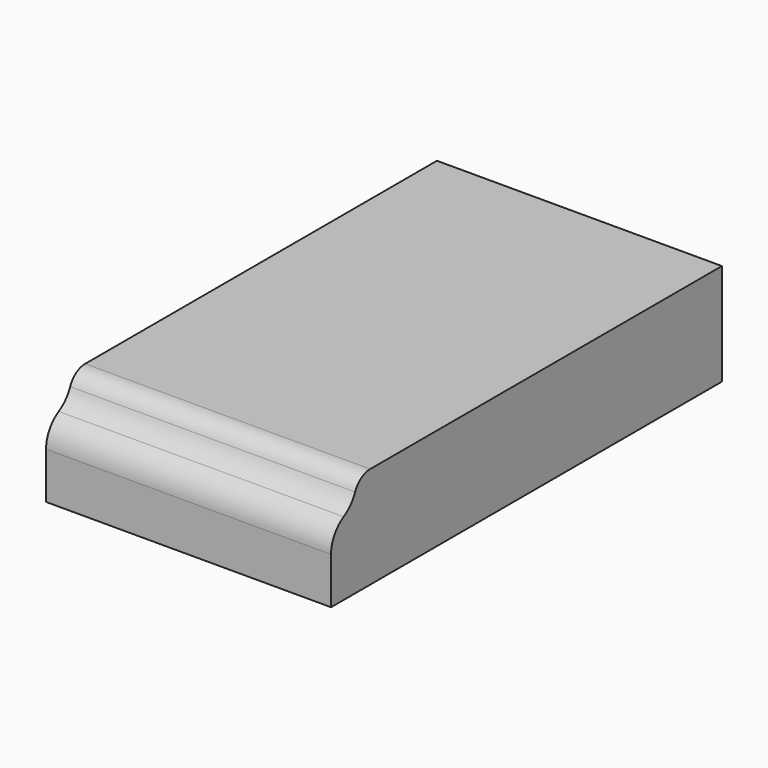
from build123d import *

# Parameters (mm, degrees)
F0_W     = 70
F0_H     = 120
F1_DEPTH = 25
F2_R     = 8
F3_DEPTH = 70
F4_R     = 5
F5_R     = 7.5


with BuildPart() as f1:
    # F0 (on Top) → F1 (new body)
    with BuildSketch(Plane.XY):
        Rectangle(F0_W, F0_H)
    extrude(amount=F1_DEPTH)

    # F2 (on face) → F3 (cut, through all)
    with BuildSketch(Plane.YZ.offset(35)):
        with Locations((-60, 25)):
            Circle(F2_R)
    extrude(amount=-F3_DEPTH, mode=Mode.SUBTRACT)

    # F4
    f4_edges = [f1.edges().sort_by_distance(p)[0] for p in [
        (0, -52, 25),
    ]]
    fillet(f4_edges, radius=F4_R)

    # F5
    f5_edges = [f1.edges().sort_by_distance(p)[0] for p in [
        (0, -60, 17),
    ]]
    fillet(f5_edges, radius=F5_R)


solid = f1.part
